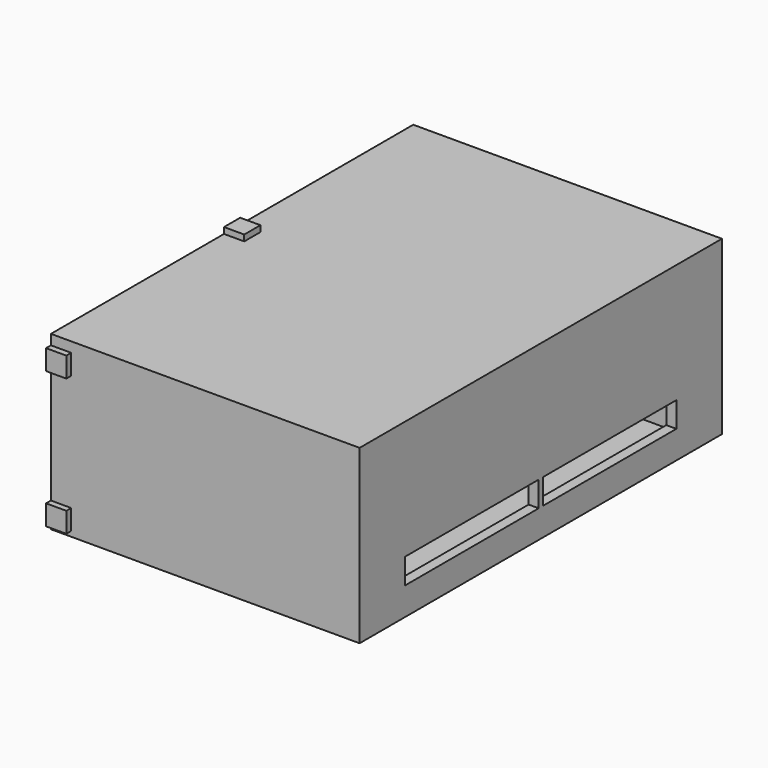
from build123d import *

# Parameters (mm, degrees)
F0_W     = 85.5
F0_H     = 30
F0_W_2   = 1.2
F0_H_2   = 4
F1_DEPTH = 4
F2_W     = 89.5
F2_H     = 34
F3_DEPTH = 55
F4_W     = 89.5
F4_H     = 34
F4_W_2   = 33
F4_H_2   = 5
F5_DEPTH = 2
F7_DEPTH = 1.25
F8_W     = 1.2
F8_H     = 4
F9_DEPTH = 0.5


with BuildPart() as f1:
    # F0 (on Right) → F1 (new body)
    with BuildSketch(Plane.YZ):
        Polygon((40.75, 32), (-2, 32), (-2, 30), (-2, 26), (-2, 3), (-2, -1), (-2, -2), (87.5, -2), (87.5, -1), (87.5, 3), (87.5, 26), (87.5, 30), (87.5, 32), (44.75, 32), align=None)
        with Locations((42.75, 15)):
            Rectangle(F0_W, F0_H, mode=Mode.SUBTRACT)
        Polygon((40.75, 33.2), (40.75, 32), (44.75, 32), (44.75, 33.2), (42.75, 33.2), align=None)
        with Locations((-2.6, 28)):
            Rectangle(F0_W_2, F0_H_2)
        with Locations((-2.6, 1)):
            Rectangle(F0_W_2, F0_H_2)
        with Locations((88.1, 28)):
            Rectangle(F0_W_2, F0_H_2)
        with Locations((88.1, 1)):
            Rectangle(F0_W_2, F0_H_2)
    extrude(amount=F1_DEPTH)

    # F2 (on face) → F3 (join)
    with BuildSketch(Plane.YZ.offset(4)):
        with Locations((42.75, 15)):
            Rectangle(F2_W, F2_H)
        Polygon((42.75, 0), (4.75, 0), (4.75, 25), (42.75, 25), (80.75, 25), (80.75, 0), align=None, mode=Mode.SUBTRACT)
    extrude(amount=F3_DEPTH)

    # F4 (on face) → F5 (join)
    with BuildSketch(Plane.YZ.offset(59)):
        with Locations((42.75, 15)):
            Rectangle(F4_W, F4_H)
        with Locations((25.75, 6)):
            Rectangle(F4_W_2, F4_H_2, mode=Mode.SUBTRACT)
        with Locations((59.75, 6)):
            Rectangle(F4_W_2, F4_H_2, mode=Mode.SUBTRACT)
    extrude(amount=F5_DEPTH)

    # F6 (on face) → F7 (join)
    with BuildSketch(Plane(origin=(0, 0, 0), x_dir=(0, -1, 0), z_dir=(-1, 0, 0))):
        Polygon((-87.5, 29.1), (-87.5, 30), (-88.7, 30), (-88.7, 26), (-87.5, 26), (-87.5, 26.9), (-88.15, 26.9), (-88.15, 29.1), align=None)
    extrude(amount=F7_DEPTH)

    # F8 (on face) → F9 (join)
    with BuildSketch(Plane(origin=(-1.25, 0, 0), x_dir=(0, -1, 0), z_dir=(-1, 0, 0))):
        with Locations((-88.1, 28)):
            Rectangle(F8_W, F8_H)
    extrude(amount=F9_DEPTH)


solid = f1.part
